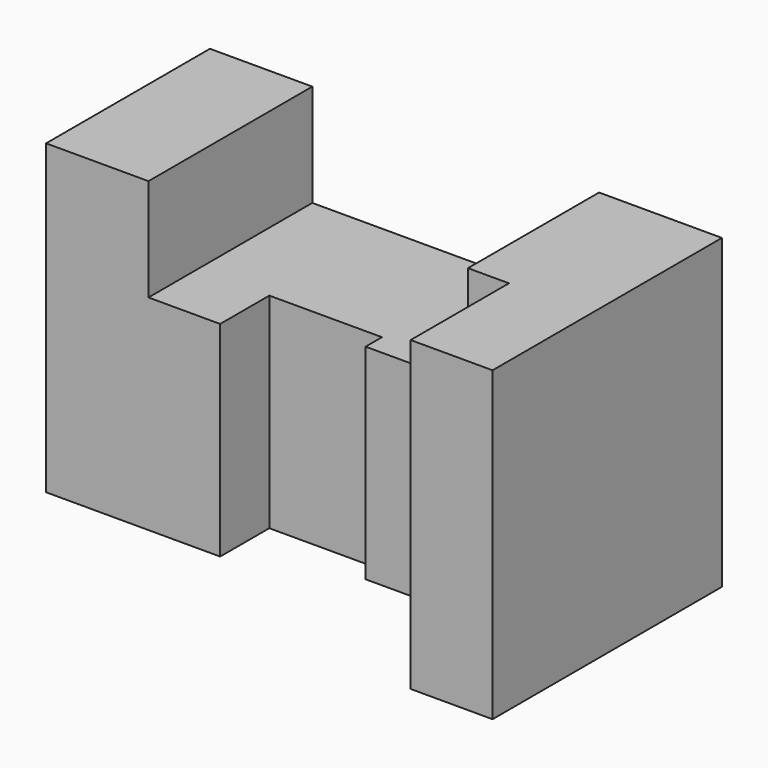
from build123d import *

# Parameters (mm, degrees)
F0_W     = 27.5
F0_H     = 50
F0_W_2   = 20
F0_H_2   = 75
F1_DEPTH = 35
F3_DEPTH = 75


with BuildPart() as f1:
    # F0 (on Front) → F1 (new body, symmetric)
    with BuildSketch(Plane.XZ):
        Polygon((-62.5, 75), (-62.5, 0), (-20, 0), (-20, 50), (-37.5, 50), (-37.5, 75), align=None)
        with Locations((-6.25, 25)):
            Rectangle(F0_W, F0_H)
        Polygon((7.5, 50), (7.5, 0), (42.5, 0), (42.5, 75), (32.5, 75), (32.5, 50), align=None)
        with Locations((52.5, 37.5)):
            Rectangle(F0_W_2, F0_H_2)
    extrude(amount=F1_DEPTH, both=True)

    # F2 (on Top) → F3 (cut)
    with BuildSketch(Plane.XY):
        Polygon((-62.5, -15), (-62.5, -35), (42.5, -35), (42.5, -5), (7.5, -5), (7.5, 0), (-20, 0), (-20, -15), align=None)
    extrude(amount=F3_DEPTH, mode=Mode.SUBTRACT)


solid = f1.part
